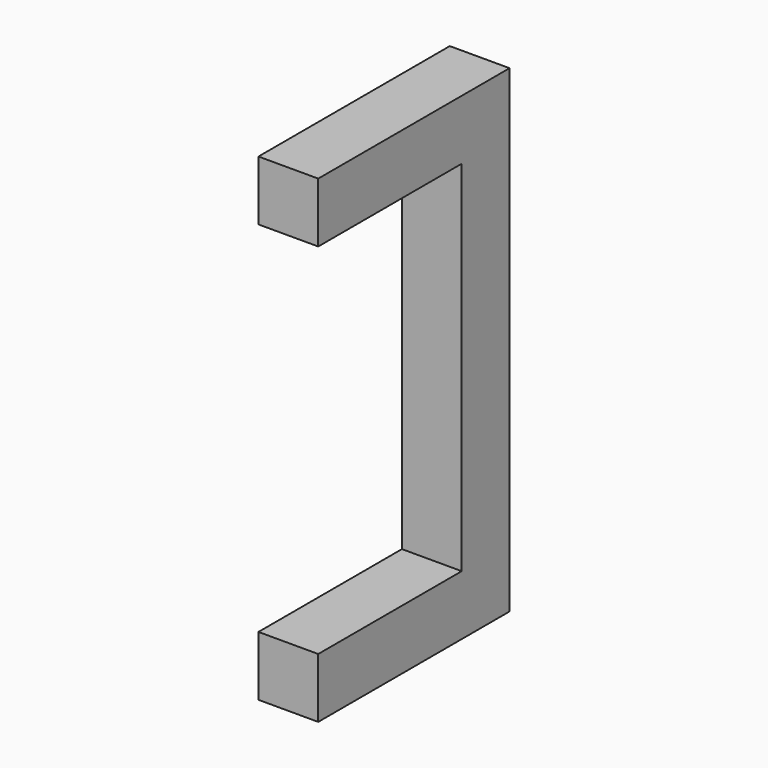
from build123d import *

# Parameters (mm, degrees)
F0_W     = 10
F0_H     = 60
F1_DEPTH = 10


with BuildPart() as f1:
    # F0 (on Right) → F1 (new body)
    with BuildSketch(Plane.YZ):
        Polygon((-10, 70), (0, 70), (0, 80), (-40, 80), (-40, 70), align=None)
        with Locations((-5, 40)):
            Rectangle(F0_W, F0_H)
        Polygon((-40, 0), (0, 0), (0, 10), (-10, 10), (-40, 10), align=None)
    extrude(amount=F1_DEPTH)


solid = f1.part
